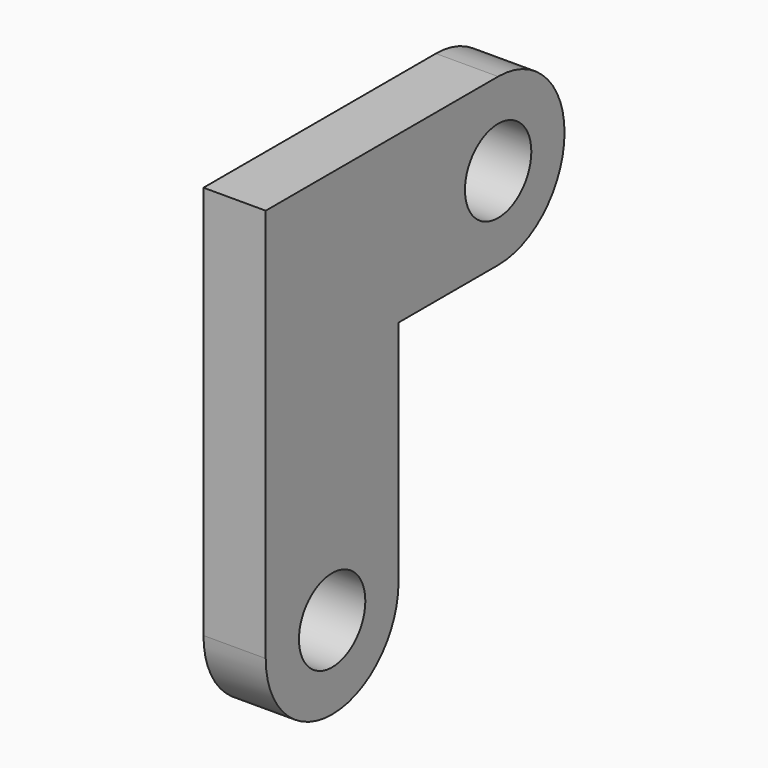
from build123d import *

# Parameters (mm, degrees)
F0_R     = 4
F1_DEPTH = 6


with BuildPart() as f1:
    # F0 (on Right) → F1 (new body)
    with BuildSketch(Plane.YZ):
        with BuildLine():
            Line((-12, -8), (0, -8))
            ThreePointArc((0, -8), (8, 0), (0, 8))
            Line((0, 8), (-28, 8))
            Line((-28, 8), (-28, -30))
            ThreePointArc((-28, -30), (-20, -38), (-12, -30))
            Line((-12, -30), (-12, -8))
        make_face()
        with Locations((-20, -30)):
            Circle(F0_R, mode=Mode.SUBTRACT)
        Circle(F0_R, mode=Mode.SUBTRACT)
    extrude(amount=F1_DEPTH)


solid = f1.part
